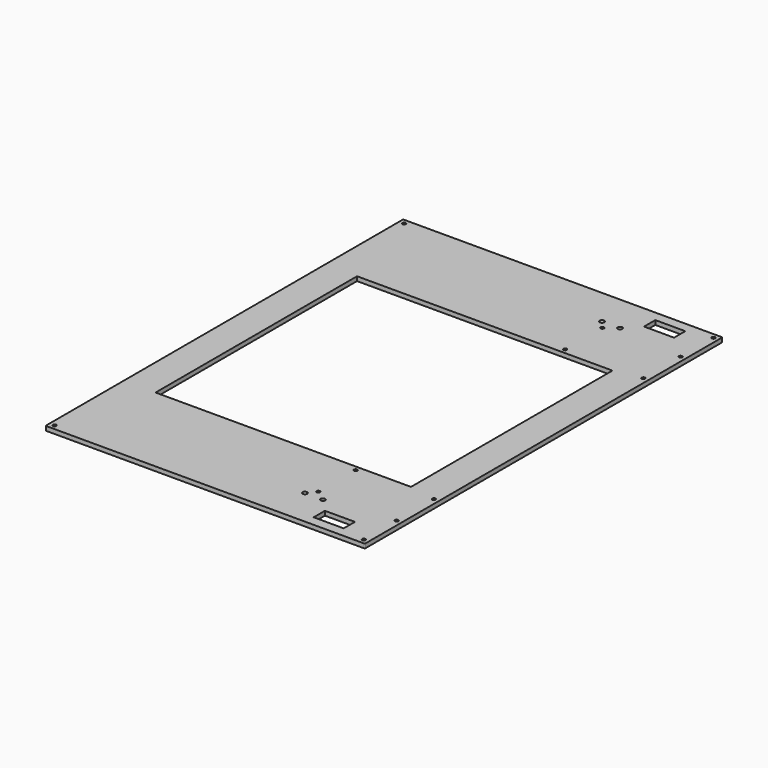
from build123d import *

# Parameters (mm, degrees)
F0_W     = 254
F0_H     = 355.6
F0_R     = 1.35255
F0_R_2   = 1.8288
F0_W_2   = 23.874984
F0_H_2   = 11.175009
F0_W_3   = 203.2
F0_H_3   = 200.359214
F1_DEPTH = 3.41884
F2_R     = 0.762


with BuildPart() as f1:
    # F0 (on Top) → F1 (new body)
    with BuildSketch(Plane.XY):
        Rectangle(F0_W, F0_H)
        with Locations((-123.03125, -173.83125)):
            Circle(F0_R, mode=Mode.SUBTRACT)
        with Locations((55.243222, -147.74098)):
            Circle(F0_R_2, mode=Mode.SUBTRACT)
        with Locations((60.733965, -141.200581)):
            Circle(F0_R, mode=Mode.SUBTRACT)
        with Locations((60.733965, -104.148357)):
            Circle(F0_R, mode=Mode.SUBTRACT)
        with Locations((91.882608, -164.274995)):
            Rectangle(F0_W_2, F0_H_2, mode=Mode.SUBTRACT)
        with Locations((69.593231, -147.74098)):
            Circle(F0_R_2, mode=Mode.SUBTRACT)
        with Locations((123.03125, -173.83125)):
            Circle(F0_R, mode=Mode.SUBTRACT)
        with Locations((123.03125, -141.200581)):
            Circle(F0_R, mode=Mode.SUBTRACT)
        with Locations((123.03125, -104.148357)):
            Circle(F0_R, mode=Mode.SUBTRACT)
        with Locations((-123.03125, 173.83125)):
            Circle(F0_R, mode=Mode.SUBTRACT)
        Rectangle(F0_W_3, F0_H_3, mode=Mode.SUBTRACT)
        with Locations((60.733965, 104.148357)):
            Circle(F0_R, mode=Mode.SUBTRACT)
        with Locations((60.733965, 141.200581)):
            Circle(F0_R, mode=Mode.SUBTRACT)
        with Locations((55.243222, 147.74098)):
            Circle(F0_R_2, mode=Mode.SUBTRACT)
        with Locations((123.03125, 104.148357)):
            Circle(F0_R, mode=Mode.SUBTRACT)
        with Locations((69.593231, 147.74098)):
            Circle(F0_R_2, mode=Mode.SUBTRACT)
        with Locations((91.882608, 164.274995)):
            Rectangle(F0_W_2, F0_H_2, mode=Mode.SUBTRACT)
        with Locations((123.03125, 141.200581)):
            Circle(F0_R, mode=Mode.SUBTRACT)
        with Locations((123.03125, 173.83125)):
            Circle(F0_R, mode=Mode.SUBTRACT)
    extrude(amount=F1_DEPTH)

    # F2
    f2_edges = [f1.edges().sort_by_distance(p)[0] for p in [
        (-127, -177.8, 1.70942),
        (127, -177.8, 1.70942),
        (127, 177.8, 1.70942),
        (-127, 177.8, 1.70942),
    ]]
    fillet(f2_edges, radius=F2_R)


solid = f1.part
